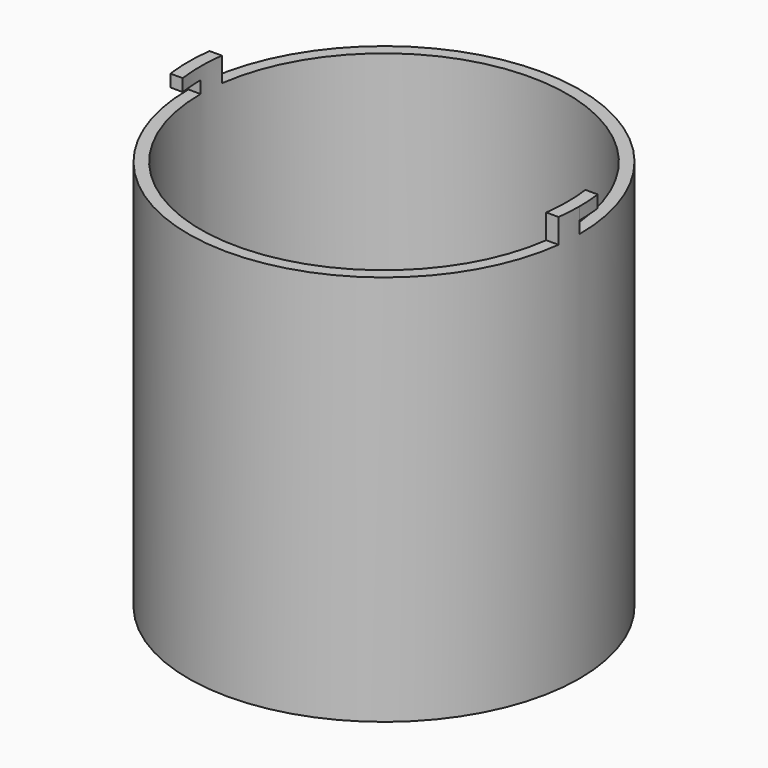
from build123d import *

# Parameters (mm, degrees)
F0_R     = 40
F0_R_2   = 5
F1_DEPTH = 85
F3_R     = 37.5
F4_DEPTH = 82.5
F5_W     = 5
F5_H     = 2.5
F5_W_2   = 35
F5_H_2   = 5
F6_DEPTH = 50
F8_COUNT = 2


with BuildPart() as f1:
    # F0 (on Top) → F1 (new body)
    with BuildSketch(Plane.XY):
        Circle(F0_R)
        Circle(F0_R_2, mode=Mode.SUBTRACT)
    extrude(amount=F1_DEPTH)

    # F3 (on face) → F4 (cut)
    with BuildSketch(Plane.XY.offset(85)):
        Circle(F3_R)
    extrude(amount=-F4_DEPTH, mode=Mode.SUBTRACT)


with BuildPart() as f6:
    # F5 (on Right) → F6 (new body)
    with BuildSketch(Plane.YZ):
        Polygon((5, 82.5), (5, 80), (40, 80), (40, 85), (5, 85), align=None)
        with Locations((2.5, 81.25)):
            Rectangle(F5_W, F5_H)
        with Locations((-22.5, 82.5)):
            Rectangle(F5_W_2, F5_H_2)
    extrude(amount=F6_DEPTH)


with BuildPart() as f8_1:
    # F8: instance of F6
    add(f6.part.rotate(Axis((0, 0, 42.584691), (0, 0, 1)), 1 * 360 / F8_COUNT))


with BuildPart() as f1_1:
    add(f1.part)

    # F9: cut F6, F8_1
    add(f6.part, mode=Mode.SUBTRACT)
    add(f8_1.part, mode=Mode.SUBTRACT)


solid = f1_1.part
